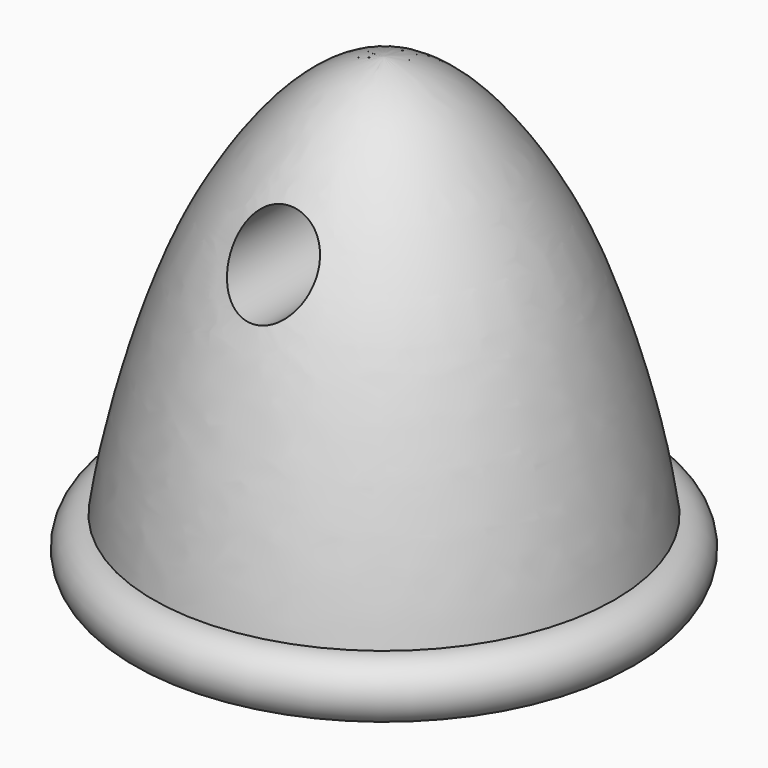
from build123d import *

# Parameters (mm, degrees)
F2_R          = 1.27
F3_DEPTH      = 7.8750001
F3_DEPTH_BACK = 7.8750001
F5_D          = 4
F5_DEPTH      = 7.62
F5_TIP        = 1.2017212381


with BuildPart() as f1:
    # F0 (on Front) → F1 (revolve)
    with BuildSketch(Plane.XZ):
        with BuildLine():
            Line((0, 13.97), (0, 0))
            Line((0, 0), (6.985, 0))
            ThreePointArc((6.985, 0), (7.874, 0.889), (6.985, 1.778))
            add(Edge.make_bspline(
                [(0, 13.97), (1.6814160792, 13.8530222035), (4.2417061309, 10.8131539294), (5.8432030034, 7.0071502602), (6.7403060068, 3.5219468301), (6.985, 1.778)],
                knots=[0, 0, 0, 0, 0.3381752407, 0.6530157142, 1, 1, 1, 1], degree=3))
        make_face()
    revolve(axis=Axis((0, 0, 11.4008450556), (0, 0, 1)))

    # F2 (on Front) → F3 (cut, two sides)
    with BuildSketch(Plane.XZ) as f3_sk:
        with Locations((0, 10.16)):
            Circle(F2_R)
    extrude(amount=-F3_DEPTH, mode=Mode.SUBTRACT)
    extrude(f3_sk.sketch, amount=F3_DEPTH_BACK, mode=Mode.SUBTRACT)

    # F5
    with Locations(Plane(origin=(0, 0, 0), x_dir=(1, 0, 0), z_dir=(0, 0, -1))):
        with Locations((0, 0)):
            Hole(F5_D / 2, depth=F5_DEPTH)
            with Locations((0, 0, -(F5_DEPTH + F5_TIP / 2))):  # 118° drill point
                Cone(0, F5_D / 2, F5_TIP, mode=Mode.SUBTRACT)


solid = f1.part
